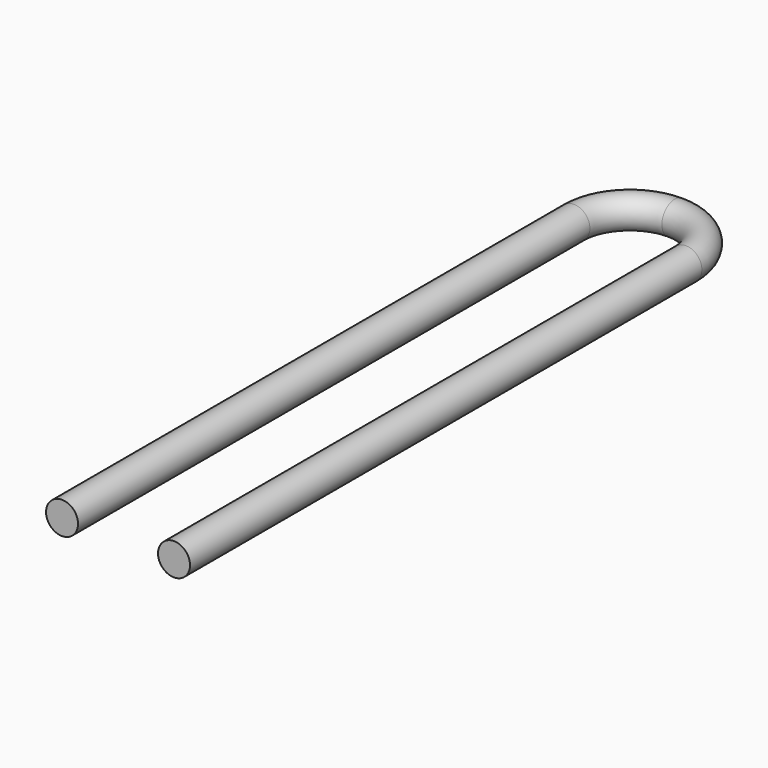
from build123d import *

# Parameters (mm, degrees)
SKETCH001_R = 0.5


with BuildPart() as part:
    # AdditivePipe: sweep along a path in Sketch
    with BuildLine(Plane.XY) as additivepipe_path:
        Line((-1.75, 0), (-1.75, 20))
        ThreePointArc((-1.75, 20), (-1.237437, 21.237437), (0, 21.75))
    # Sketch001 (on XZ_Plane of Origin) → AdditivePipe (sweep)
    with BuildSketch(Plane.XZ):
        with Locations((-1.75, 0)):
            Circle(SKETCH001_R)
    sweep(path=additivepipe_path.line)

    # Mirrored: part across YZ


with BuildPart() as part_1:
    add(part.part)
    add(part.part.mirror(Plane.YZ))


solid = part_1.part
